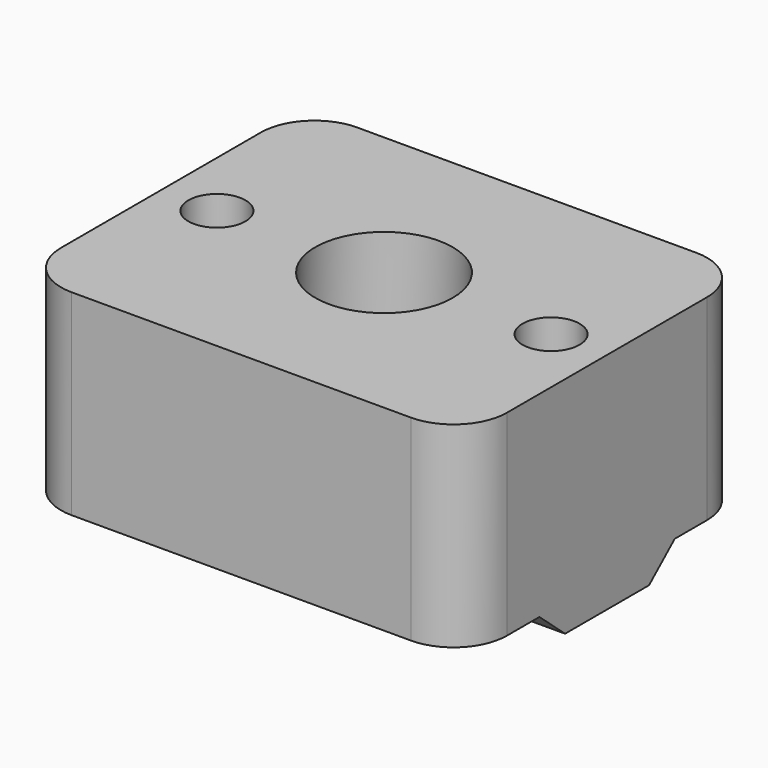
from build123d import *

# Parameters (mm, degrees)
SKETCH_W        = 25
SKETCH_H        = 20
SKETCH_R        = 3.85
PAD_DEPTH       = 11
PAD001_DEPTH    = 25
POCKET_DEPTH    = 7.06
SKETCH003_R     = 1.6
POCKET001_DEPTH = 12.561
FILLET_R        = 3
FILLET001_R     = 1


with BuildPart() as part:
    # Sketch → Pad (new body)
    with BuildSketch(Plane.XY):
        Rectangle(SKETCH_W, SKETCH_H)
        Circle(SKETCH_R, mode=Mode.SUBTRACT)
    extrude(amount=PAD_DEPTH)

    # Sketch001 (on Face4 of Pad) → Pad001 (join)
    with BuildSketch(Plane(origin=(-12.5, 0, 0), x_dir=(0, -1, 0), z_dir=(-1, 0, 0))):
        Polygon((0, 0), (-4.74, 0), (-2.94, -1.56), (2.94, -1.56), (4.74, 0), align=None)
    extrude(amount=-PAD001_DEPTH)

    # Sketch002 (on Face13 of Pad001) → Pocket (cut)
    with BuildSketch(Plane(origin=(0, 0, -1.56), x_dir=(1, 0, 0), z_dir=(0, 0, -1))):
        Polygon((0, -7.188011), (6.225, -3.594005), (6.225, 3.594005), (0, 7.188011), (-6.225, 3.594005), (-6.225, -3.594005), align=None)
    extrude(amount=-POCKET_DEPTH, mode=Mode.SUBTRACT)

    # Sketch003 (on Face19 of Pocket) → Pocket001 (cut, through all)
    with BuildSketch(Plane(origin=(0, 0, -1.56), x_dir=(1, 0, 0), z_dir=(0, 0, -1))):
        with Locations((-9.3625, 0)):
            Circle(SKETCH003_R)
        with Locations((9.3625, 0)):
            Circle(SKETCH003_R)
    extrude(amount=-POCKET001_DEPTH, mode=Mode.SUBTRACT)

    # Fillet
    fillet_edges = [part.edges().sort_by_distance(p)[0] for p in [
        (12.5, -10, 5.5),
        (12.5, 10, 5.5),
        (-12.5, 10, 5.5),
        (-12.5, -10, 5.5),
    ]]
    fillet(fillet_edges, radius=FILLET_R)

    # Fillet001
    fillet001_edges = [part.edges().sort_by_distance(p)[0] for p in [
        (-3.85, 0, 5.5),
    ]]
    fillet(fillet001_edges, radius=FILLET001_R)


solid = part.part
